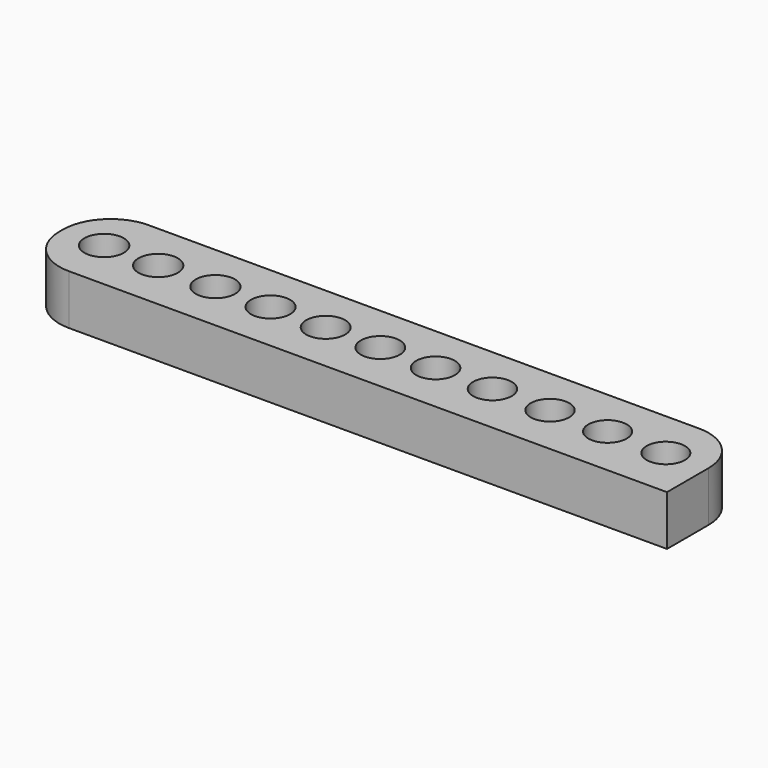
from build123d import *

# Parameters (mm, degrees)
F0_R     = 1.58
F0_R_2   = 1.575
F0_R_3   = 1.57
F0_R_4   = 1.565
F0_R_5   = 1.56
F0_R_6   = 1.555
F0_R_7   = 1.55
F0_R_8   = 1.545
F0_R_9   = 1.54
F0_R_10  = 1.535
F0_R_11  = 1.53
F1_DEPTH = 4


with BuildPart() as f1:
    # F0 (on Top) → F1 (new body)
    with BuildSketch(Plane.XY):
        with BuildLine():
            Line((22.378344, 3.884239), (-21.629983, 3.884239))
            ThreePointArc((-21.629983, 3.884239), (-24.32406, 2.768316), (-25.439983, 0.074239))
            Line((-25.439983, 0.074239), (-25.439983, -0.277782))
            ThreePointArc((-25.439983, -0.277782), (-24.32406, -2.971859), (-21.629983, -4.087782))
            Line((-21.629983, -4.087782), (26.188344, -4.087782))
            Line((26.188344, -4.087782), (26.188344, 0.074239))
            ThreePointArc((26.188344, 0.074239), (25.072421, 2.768316), (22.378344, 3.884239))
        make_face()
        with Locations((-22.08424, 0)):
            Circle(F0_R, mode=Mode.SUBTRACT)
        with Locations((-17.760683, 0)):
            Circle(F0_R_2, mode=Mode.SUBTRACT)
        with Locations((-13.18608, 0)):
            Circle(F0_R_3, mode=Mode.SUBTRACT)
        with Locations((-8.778842, 0)):
            Circle(F0_R_4, mode=Mode.SUBTRACT)
        with Locations((-4.371603, 0)):
            Circle(F0_R_5, mode=Mode.SUBTRACT)
        Circle(F0_R_6, mode=Mode.SUBTRACT)
        with Locations((4.41498, 0)):
            Circle(F0_R_7, mode=Mode.SUBTRACT)
        with Locations((8.961688, 0)):
            Circle(F0_R_8, mode=Mode.SUBTRACT)
        with Locations((13.564184, 0)):
            Circle(F0_R_9, mode=Mode.SUBTRACT)
        with Locations((18.16668, 0)):
            Circle(F0_R_10, mode=Mode.SUBTRACT)
        with Locations((22.824964, 0)):
            Circle(F0_R_11, mode=Mode.SUBTRACT)
    extrude(amount=F1_DEPTH)


solid = f1.part
